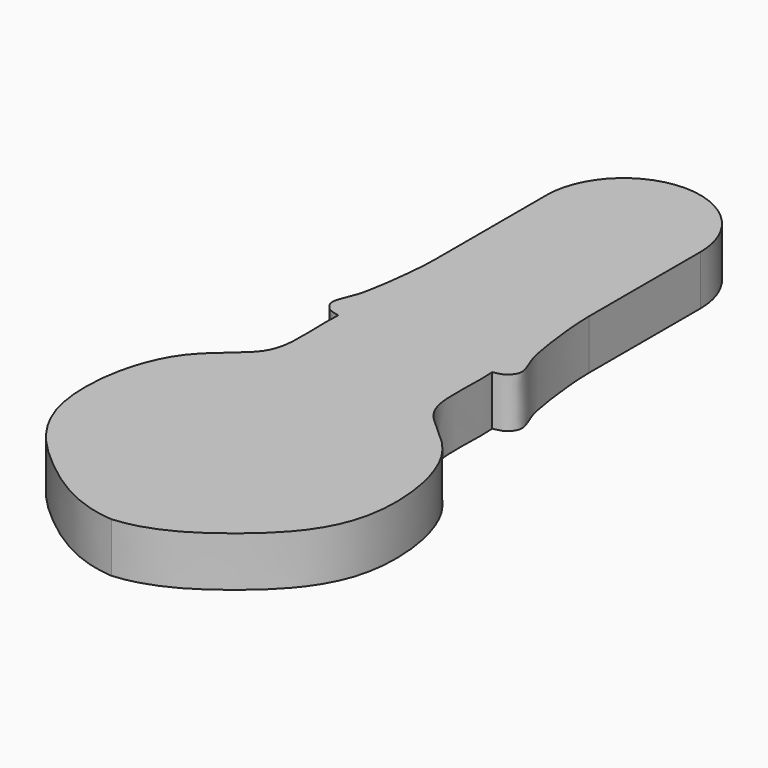
from build123d import *

# Parameters (mm, degrees)
F1_DEPTH = 8.21504


with BuildPart() as f1:
    # F0 (on Top) → F1 (new body)
    with BuildSketch(Plane.XY):
        with BuildLine():
            Line((-3.3034197986, -34.1845839397), (-4.0484705612, -34.1845839397))
            Line((-4.0484705612, -34.1845839397), (-4.0484705612, -16.5537446737))
            add(Edge.make_bspline(
                [(-4.0484705612, -36.5049652755), (-5.5591903136, -36.2094730067), (-6.1670200282, -35.7941111545), (-7.3639816279, -34.16591861), (-6.146083559, -31.4518946968), (-5.1461923542, -28.7361235287), (-4.0484705612, -19.998550415), (-4.0484705612, -16.5537446737)],
                knots=[0, 0, 0, 0, 0.1610437165, 0.2890441344, 0.4548154481, 0.6397343322, 1, 1, 1, 1], degree=3))
            add(Edge.make_bspline(
                [(-3.3034197986, -34.1845839397), (-3.7231982882, -34.7388008216), (-3.9452111146, -35.4318249037), (-4.0484705612, -36.5049652755)],
                knots=[0, 0, 0, 0, 0.0681597552, 0.0681597552, 0.0681597552, 0.0681597552], degree=3))
        make_face()
        with BuildLine():
            Line((-4.0484705612, -16.5537446737), (-4.0484705612, -34.1845839397))
            Line((-4.0484705612, -34.1845839397), (-3.3034197986, -34.1845839397))
            add(Edge.make_bspline(
                [(-3.3034197986, -34.1845839397), (-3.7231982882, -34.7388008216), (-3.9452111146, -35.4318249037), (-4.0484705612, -36.5049652755)],
                knots=[0, 0, 0, 0, 0.0681597552, 0.0681597552, 0.0681597552, 0.0681597552], degree=3))
            add(Edge.make_bspline(
                [(-4.0484705612, -36.5049652755), (-4.2313706576, -38.4057838825), (-3.8674804038, -44.3404226867), (-4.4524409123, -51.3588376939), (-15.6508327782, -57.1495224389), (-19.1373936488, -79.7020540979), (-7.2949213642, -92.4799412248), (2.7018639336, -98.7805787887), (8.6515294388, -99.2159172893)],
                knots=[0.0681597552, 0.0681597552, 0.0681597552, 0.0681597552, 0.1888889109, 0.2997773957, 0.4453863347, 0.641896656, 0.8197243688, 1, 1, 1, 1], degree=3))
            add(Edge.make_bspline(
                [(21.3515294388, -36.5049652755), (21.5344295352, -38.4057838825), (21.1705392814, -44.3404226867), (21.7554997898, -51.3588376939), (32.9538916558, -57.1495224389), (36.4404525264, -79.7020540979), (24.5979802418, -92.4799412248), (14.601194944, -98.7805787887), (8.6515294388, -99.2159172893)],
                knots=[0.0681597552, 0.0681597552, 0.0681597552, 0.0681597552, 0.1888889109, 0.2997773957, 0.4453863347, 0.641896656, 0.8197243688, 1, 1, 1, 1], degree=3))
            add(Edge.make_bspline(
                [(20.6064786762, -34.1845839397), (21.0262571658, -34.7388008216), (21.2482699922, -35.4318249037), (21.3515294388, -36.5049652755)],
                knots=[0, 0, 0, 0, 0.0681597552, 0.0681597552, 0.0681597552, 0.0681597552], degree=3))
            Line((20.6064786762, -34.1845839397), (21.3515294388, -34.1845839397))
            Line((21.3515294388, -34.1845839397), (21.3515294388, -16.5537446737))
            Line((21.3515294388, -16.5537446737), (21.3515294388, 6.4554160603))
            ThreePointArc((21.3515294388, 6.4554160603), (8.6515294388, 19.1554160603), (-4.0484705612, 6.4554160603))
            Line((-4.0484705612, 6.4554160603), (-4.0484705612, -16.5537446737))
        make_face()
        with BuildLine():
            add(Edge.make_bspline(
                [(20.6064786762, -34.1845839397), (21.0262571658, -34.7388008216), (21.2482699922, -35.4318249037), (21.3515294388, -36.5049652755)],
                knots=[0, 0, 0, 0, 0.0681597552, 0.0681597552, 0.0681597552, 0.0681597552], degree=3))
            add(Edge.make_bspline(
                [(21.3515294388, -36.5049652755), (22.8622491912, -36.2094730067), (23.4700789058, -35.7941111545), (24.6670405055, -34.16591861), (23.4491424366, -31.4518946968), (22.4492512318, -28.7361235287), (21.3515294388, -19.998550415), (21.3515294388, -16.5537446737)],
                knots=[0, 0, 0, 0, 0.1610437165, 0.2890441344, 0.4548154481, 0.6397343322, 1, 1, 1, 1], degree=3))
            Line((21.3515294388, -16.5537446737), (21.3515294388, -34.1845839397))
            Line((21.3515294388, -34.1845839397), (20.6064786762, -34.1845839397))
        make_face()
    extrude(amount=F1_DEPTH)


solid = f1.part
